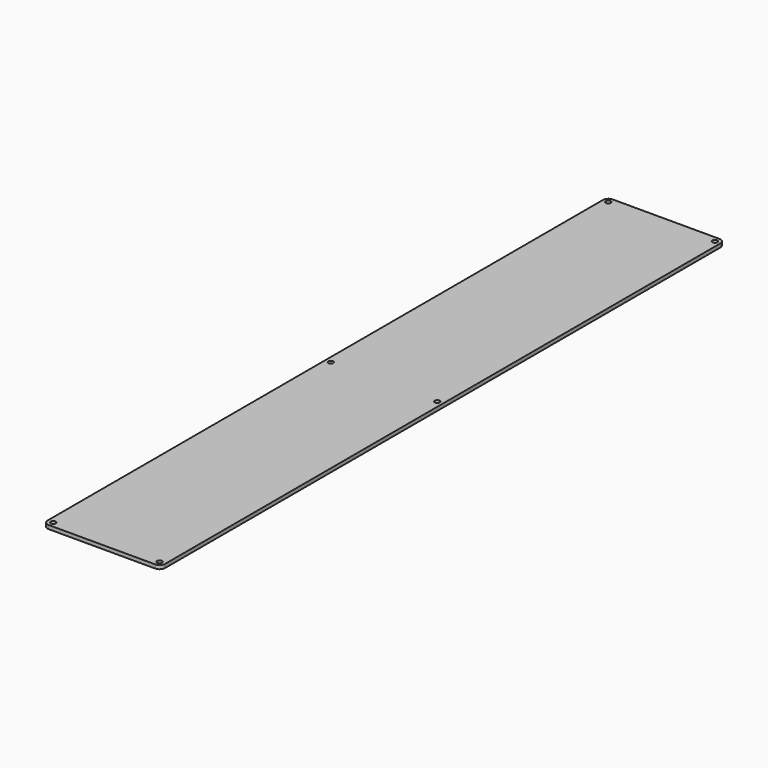
from build123d import *

# Parameters (mm, degrees)
F0_W     = 101.6
F0_H     = 609.6
F0_R     = 2.15265
F1_DEPTH = 3.175
F2_R     = 4.7625


with BuildPart() as f1:
    # F0 (on Top) → F1 (new body)
    with BuildSketch(Plane.XY):
        Rectangle(F0_W, F0_H)
        with Locations((-46.0375, -300.0375)):
            Circle(F0_R, mode=Mode.SUBTRACT)
        with Locations((46.0375, -300.0375)):
            Circle(F0_R, mode=Mode.SUBTRACT)
        with Locations((-46.0375, 0)):
            Circle(F0_R, mode=Mode.SUBTRACT)
        with Locations((-46.0375, 300.0375)):
            Circle(F0_R, mode=Mode.SUBTRACT)
        with Locations((46.0375, 0)):
            Circle(F0_R, mode=Mode.SUBTRACT)
        with Locations((46.0375, 300.0375)):
            Circle(F0_R, mode=Mode.SUBTRACT)
    extrude(amount=F1_DEPTH)

    # F2
    f2_edges = [f1.edges().sort_by_distance(p)[0] for p in [
        (-50.8, 304.8, 1.5875),
        (50.8, 304.8, 1.5875),
        (50.8, -304.8, 1.5875),
        (-50.8, -304.8, 1.5875),
    ]]
    fillet(f2_edges, radius=F2_R)


solid = f1.part
